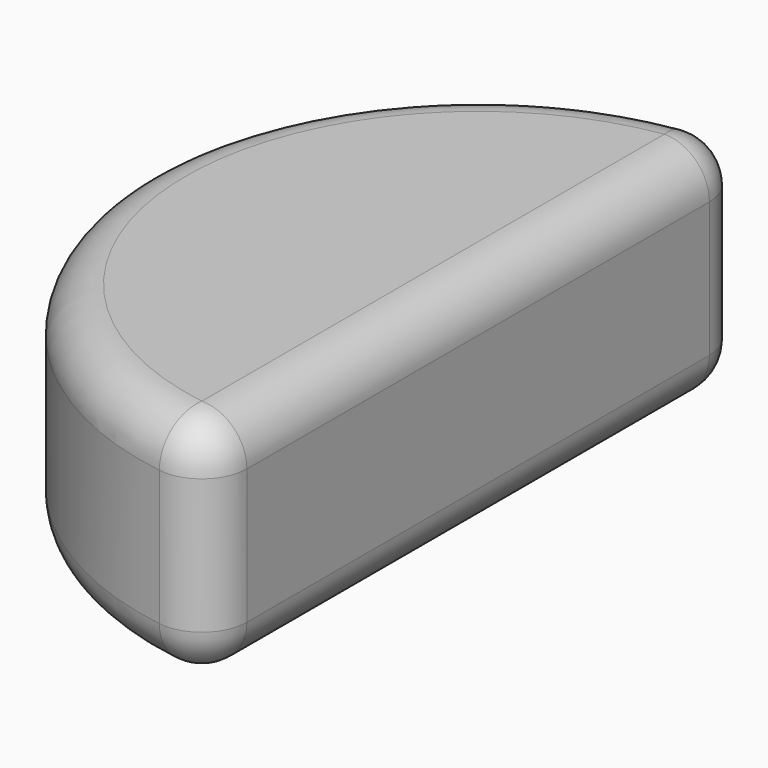
from build123d import *

# Parameters (mm, degrees)
F0_R     = 38.1
F1_DEPTH = 25.4
F2_W     = 44.03428
F2_H     = 85.478309
F3_DEPTH = 25.4
F4_R     = 5.08


with BuildPart() as f1:
    # F0 (on Top) → F1 (new body)
    with BuildSketch(Plane.XY):
        Circle(F0_R)
    extrude(amount=F1_DEPTH)

    # F2 (on face) → F3 (cut)
    with BuildSketch(Plane.XY.offset(25.4)):
        with Locations((22.01714, -1.870739)):
            Rectangle(F2_W, F2_H)
    extrude(amount=-F3_DEPTH, mode=Mode.SUBTRACT)

    # F4
    f4_edges = [f1.edges().sort_by_distance(p)[0] for p in [
        (0, 0, 25.4),
        (0, -38.1, 12.7),
        (0, 38.1, 12.7),
        (-38.1, 0, 25.4),
        (-38.1, 0, 0),
        (0, 0, 0),
    ]]
    fillet(f4_edges, radius=F4_R)


solid = f1.part
